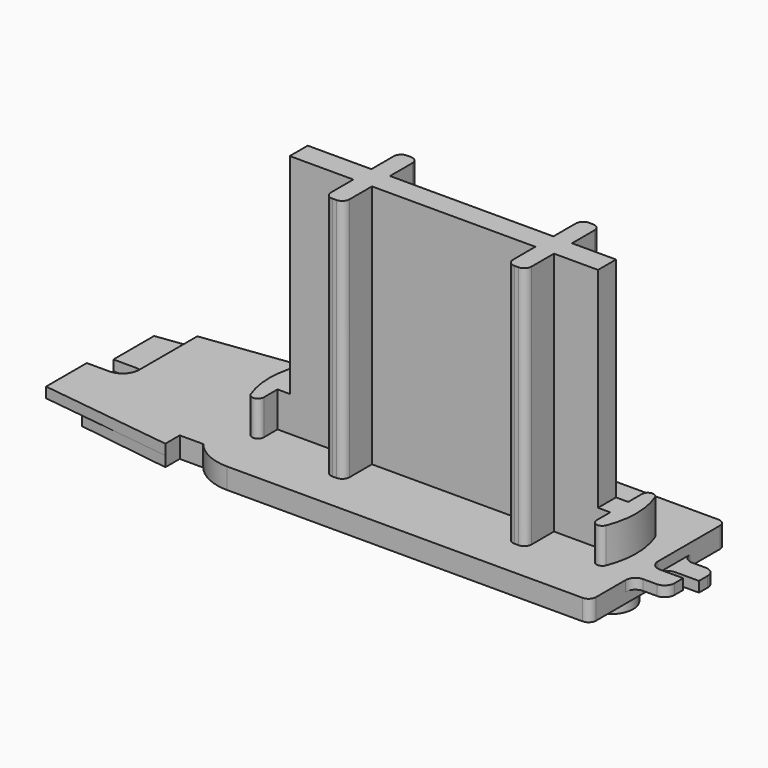
from build123d import *

# Parameters (mm, degrees)
F1_DEPTH = 1.06
F3_DEPTH = 1.06
F5_DEPTH = 3
F7_DEPTH = 25
F9_DEPTH = 3.6


with BuildPart() as f1:
    # F0 (on Top) → F1 (new body)
    with BuildSketch(Plane.XY):
        with BuildLine():
            ThreePointArc((-41, -6.825), (-39.256131, -8.181908), (-37.1, -8.665))
            Line((-37.1, -8.665), (-0.75, -8.665))
            ThreePointArc((-0.75, -8.665), (-0.21967, -8.44533), (0, -7.915))
            Line((0, -7.915), (0, 0))
            ThreePointArc((0, 0), (0.294358, 0.710642), (1.005, 1.005))
            Line((1.005, 1.005), (3.39, 1.005))
            Line((3.39, 1.005), (3.39, 2.125))
            ThreePointArc((3.39, 2.125), (3.097107, 2.832107), (2.39, 3.125))
            Line((2.39, 3.125), (1, 3.125))
            ThreePointArc((1, 3.125), (0.292893, 3.417893), (0, 4.125))
            Line((0, 4.125), (0, 7.915))
            ThreePointArc((0, 7.915), (-0.21967, 8.44533), (-0.75, 8.665))
            Line((-0.75, 8.665), (-37.1, 8.665))
            ThreePointArc((-37.1, 8.665), (-39.256131, 8.181908), (-41, 6.825))
            Line((-41, 6.825), (-43.4, 6.825))
            Line((-43.4, 6.825), (-43.4, 8.665))
            Line((-43.4, 8.665), (-57, 6.9))
            Line((-57, 6.9), (-57, 1.7))
            Line((-57, 1.7), (-54.7, 1.7))
            ThreePointArc((-54.7, 1.7), (-53.497918, 1.202082), (-53, 0))
            Line((-53, 0), (-53, -7.285))
            Line((-53, -7.285), (-43.4, -8.665))
            Line((-43.4, -8.665), (-43.4, -6.825))
            Line((-43.4, -6.825), (-41, -6.825))
        make_face()
    extrude(amount=-F1_DEPTH)

    # F2 (on face) → F3 (join)
    with BuildSketch(Plane.XY):
        with BuildLine():
            ThreePointArc((0, 7.915), (-0.21967, 8.44533), (-0.75, 8.665))
            Line((-0.75, 8.665), (-37.1, 8.665))
            ThreePointArc((-37.1, 8.665), (-39.256131, 8.181908), (-41, 6.825))
            Line((-41, 6.825), (-43.4, 6.825))
            Line((-43.4, 6.825), (-43.4, 8.665))
            Line((-43.4, 8.665), (-53, 7.419118))
            Line((-53, 7.419118), (-53, 0))
            ThreePointArc((-53, 0), (-53.497918, -1.202082), (-54.7, -1.7))
            Line((-54.7, -1.7), (-57, -1.7))
            Line((-57, -1.7), (-57, -6.9))
            Line((-57, -6.9), (-43.4, -8.665))
            Line((-43.4, -8.665), (-43.4, -6.825))
            Line((-43.4, -6.825), (-41, -6.825))
            ThreePointArc((-41, -6.825), (-39.256131, -8.181908), (-37.1, -8.665))
            Line((-37.1, -8.665), (-0.75, -8.665))
            ThreePointArc((-0.75, -8.665), (-0.21967, -8.44533), (0, -7.915))
            Line((0, -7.915), (0, -4.125))
            ThreePointArc((0, -4.125), (0.292893, -3.417893), (1, -3.125))
            Line((1, -3.125), (2.39, -3.125))
            ThreePointArc((2.39, -3.125), (3.097107, -2.832107), (3.39, -2.125))
            Line((3.39, -2.125), (3.39, -1.005))
            Line((3.39, -1.005), (1.005, -1.005))
            ThreePointArc((1.005, -1.005), (0.294358, -0.710642), (0, 0))
            Line((0, 0), (0, 7.915))
        make_face()
    extrude(amount=F3_DEPTH)

    # F4 (on face) → F5 (join)
    with BuildSketch(Plane(origin=(0, 0, -1.06), x_dir=(1, 0, 0), z_dir=(0, 0, -1))):
        with BuildLine():
            Line((-29.925, 2.275), (-37.725, 2.275))
            ThreePointArc((-37.725, 2.275), (-40, 0), (-37.725, -2.275))
            Line((-37.725, -2.275), (-29.925, -2.275))
            ThreePointArc((-29.925, -2.275), (-27.65, 0), (-29.925, 2.275))
        make_face()
        with BuildLine():
            Line((-4.805, 2.275), (-12.605, 2.275))
            ThreePointArc((-12.605, 2.275), (-14.88, 0), (-12.605, -2.275))
            Line((-12.605, -2.275), (-4.805, -2.275))
            ThreePointArc((-4.805, -2.275), (-2.53, 0), (-4.805, 2.275))
        make_face()
    extrude(amount=F5_DEPTH)

    # F6 (on face) → F7 (join)
    with BuildSketch(Plane.XY.offset(1.06)):
        with BuildLine():
            Line((-30.2, 1.15), (-36.7, 1.15))
            Line((-36.7, 1.15), (-36.7, -1.15))
            Line((-36.7, -1.15), (-30.2, -1.15))
            Line((-30.2, -1.15), (-30.2, -4.0125))
            ThreePointArc((-30.2, -4.0125), (-29.98033, -4.54283), (-29.45, -4.7625))
            Line((-29.45, -4.7625), (-29.05, -4.7625))
            ThreePointArc((-29.05, -4.7625), (-28.51967, -4.54283), (-28.3, -4.0125))
            Line((-28.3, -4.0125), (-28.3, -1.15))
            Line((-28.3, -1.15), (-11.6, -1.15))
            Line((-11.6, -1.15), (-11.6, -4.0125))
            ThreePointArc((-11.6, -4.0125), (-11.38033, -4.54283), (-10.85, -4.7625))
            Line((-10.85, -4.7625), (-10.45, -4.7625))
            ThreePointArc((-10.45, -4.7625), (-9.91967, -4.54283), (-9.7, -4.0125))
            Line((-9.7, -4.0125), (-9.7, -1.15))
            Line((-9.7, -1.15), (-5.2, -1.15))
            Line((-5.2, -1.15), (-5.2, 1.15))
            Line((-5.2, 1.15), (-9.7, 1.15))
            Line((-9.7, 1.15), (-9.7, 4.0125))
            ThreePointArc((-9.7, 4.0125), (-9.91967, 4.54283), (-10.45, 4.7625))
            Line((-10.45, 4.7625), (-10.85, 4.7625))
            ThreePointArc((-10.85, 4.7625), (-11.38033, 4.54283), (-11.6, 4.0125))
            Line((-11.6, 4.0125), (-11.6, 1.15))
            Line((-11.6, 1.15), (-28.3, 1.15))
            Line((-28.3, 1.15), (-28.3, 4.0125))
            ThreePointArc((-28.3, 4.0125), (-28.51967, 4.54283), (-29.05, 4.7625))
            Line((-29.05, 4.7625), (-29.45, 4.7625))
            ThreePointArc((-29.45, 4.7625), (-29.98033, 4.54283), (-30.2, 4.0125))
            Line((-30.2, 4.0125), (-30.2, 1.15))
        make_face()
    extrude(amount=F7_DEPTH)

    # F8 (on face) → F9 (join)
    with BuildSketch(Plane.XY.offset(1.06)):
        with BuildLine():
            Line((-37.95, 1.15), (-37.95, 2.9))
            ThreePointArc((-37.95, 2.9), (-38.4382, 3.489492), (-39.108336, 3.119684))
            ThreePointArc((-39.108336, 3.119684), (-39.7, 0), (-39.108336, -3.119684))
            ThreePointArc((-39.108336, -3.119684), (-38.4382, -3.489492), (-37.95, -2.9))
            Line((-37.95, -2.9), (-37.95, -1.15))
            Line((-37.95, -1.15), (-36.7, -1.15))
            Line((-36.7, -1.15), (-36.7, 1.15))
            Line((-36.7, 1.15), (-37.95, 1.15))
        make_face()
        with BuildLine():
            Line((-5.2, -1.15), (-3.95, -1.15))
            Line((-3.95, -1.15), (-3.95, -2.9))
            ThreePointArc((-3.95, -2.9), (-3.4618, -3.489492), (-2.791664, -3.119684))
            ThreePointArc((-2.791664, -3.119684), (-2.2, 0), (-2.791664, 3.119684))
            ThreePointArc((-2.791664, 3.119684), (-3.4618, 3.489492), (-3.95, 2.9))
            Line((-3.95, 2.9), (-3.95, 1.15))
            Line((-3.95, 1.15), (-5.2, 1.15))
            Line((-5.2, 1.15), (-5.2, -1.15))
        make_face()
    extrude(amount=F9_DEPTH)


solid = f1.part
